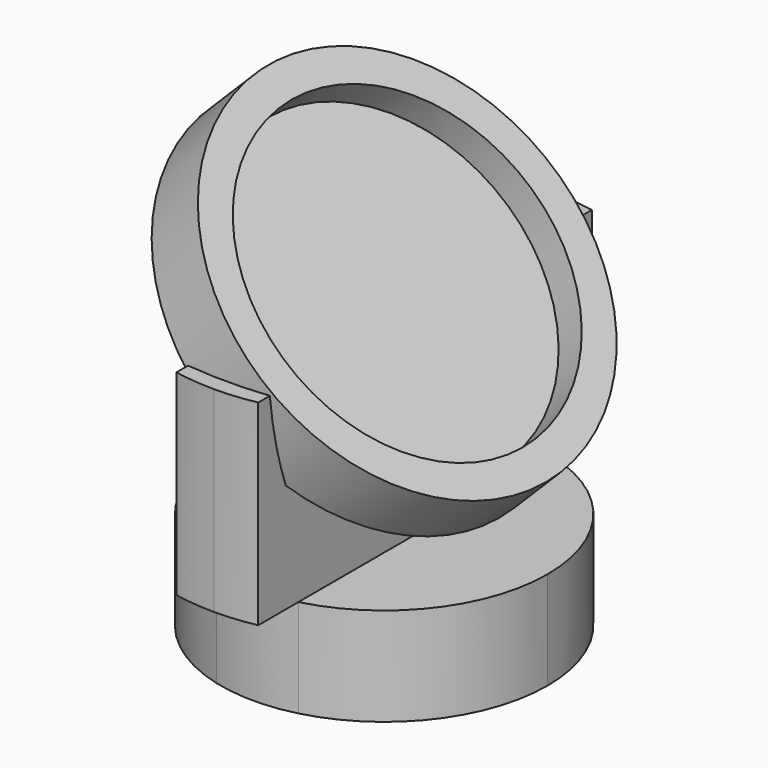
from build123d import *

# Parameters (mm, degrees)
F3_R     = 12
F3_R_2   = 10
F4_DEPTH = 2
F5_DEPTH = 12
F6_R     = 1
F7_DEPTH = 6
F8_DEPTH = 2


with BuildPart() as f4:
    # F3 (on 3pt) → F4 (new body, symmetric)
    with BuildSketch(Plane(origin=(0, 0, 0), x_dir=(0.7071067812, 0, -0.7071067812), z_dir=(-0.7071067812, 0, -0.7071067812))):
        Circle(F3_R)
        Circle(F3_R_2, mode=Mode.SUBTRACT)
        Circle(F3_R_2)
    extrude(amount=F4_DEPTH, both=True)

    # F0 (on Top) → F5 (join)
    with BuildSketch(Plane.XY):
        with BuildLine():
            ThreePointArc((-2.5, -12.7573508222), (-1.2558740605, -12.9391955061), (0, -13))
            Line((0, -13), (0, 0))
            Line((0, 0), (-2.5, 0))
            Line((-2.5, 0), (-2.5, -12.7573508222))
        make_face()
        with BuildLine():
            Line((0, 0), (0, 13))
            ThreePointArc((0, 13), (-1.2558740605, 12.9391955061), (-2.5, 12.7573508222))
            Line((-2.5, 12.7573508222), (-2.5, 0))
            Line((-2.5, 0), (0, 0))
        make_face()
        with BuildLine():
            Line((2.5, 0), (2.5, 12.7573508222))
            ThreePointArc((2.5, 12.7573508222), (1.2558740605, 12.9391955061), (0, 13))
            Line((0, 13), (0, 0))
            Line((0, 0), (2.5, 0))
        make_face()
        with BuildLine():
            ThreePointArc((0, -13), (1.2558740605, -12.9391955061), (2.5, -12.7573508222))
            Line((2.5, -12.7573508222), (2.5, 0))
            Line((2.5, 0), (0, 0))
            Line((0, 0), (0, -13))
        make_face()
    extrude(amount=-F5_DEPTH)

    # F6 (on face) → F7 (join)
    with BuildSketch(Plane(origin=(0, 0, -12), x_dir=(1, 0, 0), z_dir=(0, 0, -1))):
        with BuildLine():
            ThreePointArc((2.5, -9.6824583655), (7.9056941504, -6.123724357), (10, 0))
            ThreePointArc((10, 0), (7.9056941504, 6.123724357), (2.5, 9.6824583655))
            Line((2.5, 9.6824583655), (2.5, -9.6824583655))
        make_face()
        with BuildLine():
            Line((-2.5, -9.6824583655), (-2.5, 9.6824583655))
            ThreePointArc((-2.5, 9.6824583655), (-10, 0), (-2.5, -9.6824583655))
        make_face()
        with BuildLine():
            Line((2.5, -9.6824583655), (2.5, 9.6824583655))
            ThreePointArc((2.5, 9.6824583655), (0, 10), (-2.5, 9.6824583655))
            Line((-2.5, 9.6824583655), (-2.5, -9.6824583655))
            ThreePointArc((-2.5, -9.6824583655), (0, -10), (2.5, -9.6824583655))
        make_face()
        Circle(F6_R, mode=Mode.SUBTRACT)
    extrude(amount=F7_DEPTH)

    # F3 (on 3pt) → F8 (cut)
    with BuildSketch(Plane(origin=(0, 0, 0), x_dir=(0.7071067812, 0, -0.7071067812), z_dir=(-0.7071067812, 0, -0.7071067812))):
        Circle(F3_R_2)
    extrude(amount=-F8_DEPTH, mode=Mode.SUBTRACT)


solid = f4.part
